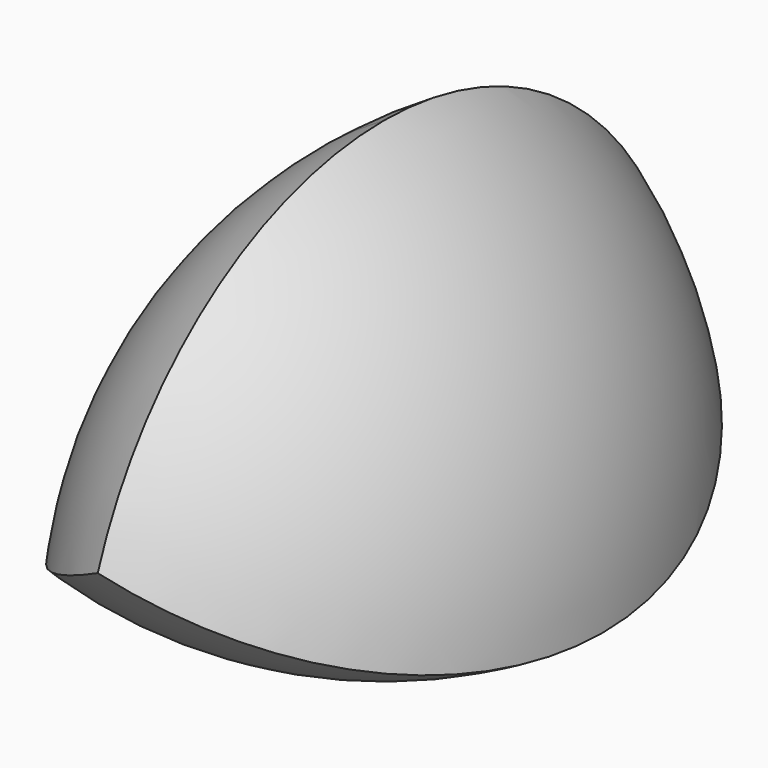
from build123d import *

# Parameters (mm, degrees)
F1_ANGLE_BACK = 90
F1_ANGLE      = 180
F2_ANGLE_BACK = 90
F2_ANGLE      = 180
F3_ANGLE_BACK = 90
F3_ANGLE      = 180


with BuildPart() as f1:
    # F0 (on Front) → F1 (revolve)
    with BuildSketch(Plane.XZ, mode=Mode.PRIVATE) as f1_sk:
        with BuildLine():
            ThreePointArc((10.9985226281, -6.35), (8.0514773719, 4.6485226281), (0, 12.7))
            ThreePointArc((0, 12.7), (-8.0514773719, 4.6485226281), (-10.9985226281, -6.35))
            ThreePointArc((-10.9985226281, -6.35), (0, -9.2970452561), (10.9985226281, -6.35))
        make_face()
    revolve(f1_sk.sketch.rotate(Axis((12.3773198276, 0, -3.961853197), (0.5, 0, 0.8660254038)), -F1_ANGLE_BACK), axis=Axis((12.3773198276, 0, -3.961853197), (0.5, 0, 0.8660254038)), revolution_arc=F1_ANGLE)

    # F0 (on Front) → F2 (revolve, intersect)
    with BuildSketch(Plane.XZ, mode=Mode.PRIVATE) as f2_sk:
        with BuildLine():
            ThreePointArc((10.9985226281, -6.35), (8.0514773719, 4.6485226281), (0, 12.7))
            ThreePointArc((0, 12.7), (-8.0514773719, 4.6485226281), (-10.9985226281, -6.35))
            ThreePointArc((-10.9985226281, -6.35), (0, -9.2970452561), (10.9985226281, -6.35))
        make_face()
    revolve(f2_sk.sketch.rotate(Axis((-2.7575943991, 0, 12.7), (-1, 0, 0)), -F2_ANGLE_BACK), axis=Axis((-2.7575943991, 0, 12.7), (-1, 0, 0)), revolution_arc=F2_ANGLE, mode=Mode.INTERSECT)

    # F0 (on Front) → F3 (revolve, intersect)
    with BuildSketch(Plane.XZ, mode=Mode.PRIVATE) as f3_sk:
        with BuildLine():
            ThreePointArc((10.9985226281, -6.35), (8.0514773719, 4.6485226281), (0, 12.7))
            ThreePointArc((0, 12.7), (-8.0514773719, 4.6485226281), (-10.9985226281, -6.35))
            ThreePointArc((-10.9985226281, -6.35), (0, -9.2970452561), (10.9985226281, -6.35))
        make_face()
    revolve(f3_sk.sketch.rotate(Axis((-9.6197254285, 0, -8.738146803), (0.5, 0, -0.8660254038)), -F3_ANGLE_BACK), axis=Axis((-9.6197254285, 0, -8.738146803), (0.5, 0, -0.8660254038)), revolution_arc=F3_ANGLE, mode=Mode.INTERSECT)


solid = f1.part
